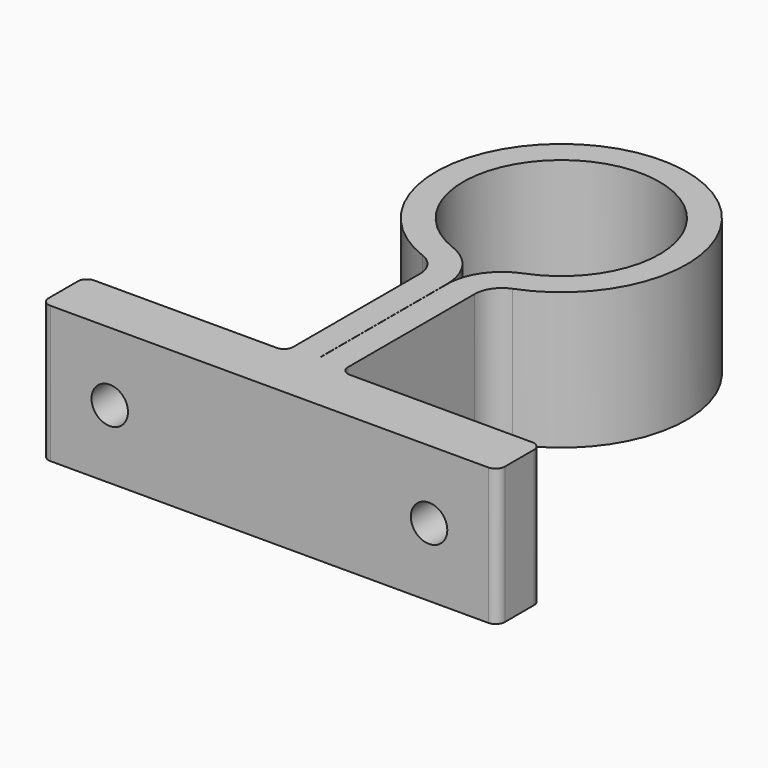
from build123d import *

# Parameters (mm, degrees)
F1_DEPTH       = 15
F3_D           = 4
F3_DEPTH       = 12
F3_CSINK_D     = 8.2
F3_CSINK_ANGLE = 90
F3_TIP         = 1.2017212381


with BuildPart() as f1:
    # F0 (on Top) → F1 (new body)
    with BuildSketch(Plane.XY):
        with BuildLine():
            ThreePointArc((3, -15.638494173), (3.5277661319, -13.9390649449), (4.9253731343, -12.8375698435))
            ThreePointArc((4.9253731343, -12.8375698435), (0, 13.75), (-4.9253731343, -12.8375698435))
            ThreePointArc((-4.9253731343, -12.8375698435), (-3.5277661319, -13.9390649449), (-3, -15.638494173))
            Line((-3, -15.638494173), (-3, -33))
            ThreePointArc((-3, -33), (-3.2928932188, -33.7071067812), (-4, -34))
            Line((-4, -34), (-24, -34))
            ThreePointArc((-24, -34), (-24.7071067812, -34.2928932188), (-25, -35))
            Line((-25, -35), (-25, -39))
            ThreePointArc((-25, -39), (-24.7071067812, -39.7071067812), (-24, -40))
            Line((-24, -40), (24, -40))
            ThreePointArc((24, -40), (24.7071067812, -39.7071067812), (25, -39))
            Line((25, -39), (25, -35))
            ThreePointArc((25, -35), (24.7071067812, -34.2928932188), (24, -34))
            Line((24, -34), (4, -34))
            ThreePointArc((4, -34), (3.2928932188, -33.7071067812), (3, -33))
            Line((3, -33), (3, -15.638494173))
        make_face()
        with BuildLine():
            ThreePointArc((-3.8543283582, -10.0459819285), (0, 10.76), (3.8543283582, -10.0459819285))
            ThreePointArc((3.8543283582, -10.0459819285), (1.0637730434, -12.2453004808), (0.01, -15.638494173))
            Line((0.01, -15.638494173), (0.01, -33))
            ThreePointArc((0.01, -33), (1.1786439431, -35.8213560569), (4, -36.99))
            Line((4, -36.99), (22.01, -36.99))
            Line((22.01, -36.99), (22.01, -37.01))
            Line((22.01, -37.01), (-22.01, -37.01))
            Line((-22.01, -37.01), (-22.01, -36.99))
            Line((-22.01, -36.99), (-4, -36.99))
            ThreePointArc((-4, -36.99), (-1.1786439431, -35.8213560569), (-0.01, -33))
            Line((-0.01, -33), (-0.01, -15.638494173))
            ThreePointArc((-0.01, -15.638494173), (-1.0637730434, -12.2453004808), (-3.8543283582, -10.0459819285))
        make_face(mode=Mode.SUBTRACT)
        with BuildLine():
            ThreePointArc((4, -36.99), (1.1786439431, -35.8213560569), (0.01, -33))
            Line((0.01, -33), (-0.01, -33))
            ThreePointArc((-0.01, -33), (-1.1786439431, -35.8213560569), (-4, -36.99))
            Line((-4, -36.99), (-22.01, -36.99))
            Line((-22.01, -36.99), (-22.01, -37.01))
            Line((-22.01, -37.01), (22.01, -37.01))
            Line((22.01, -37.01), (22.01, -36.99))
            Line((22.01, -36.99), (4, -36.99))
        make_face()
    extrude(amount=F1_DEPTH)

    # F3
    with Locations(Plane(origin=(0, -34, 0), x_dir=(-1, 0, 0), z_dir=(0, 1, 0))):
        with Locations((-17.5, 7.5), (17.5, 7.5)):
            CounterSinkHole(F3_D / 2, F3_CSINK_D / 2, depth=F3_DEPTH, counter_sink_angle=F3_CSINK_ANGLE)
            with Locations((0, 0, -(F3_DEPTH + F3_TIP / 2))):  # 118° drill point
                Cone(0, F3_D / 2, F3_TIP, mode=Mode.SUBTRACT)


solid = f1.part
